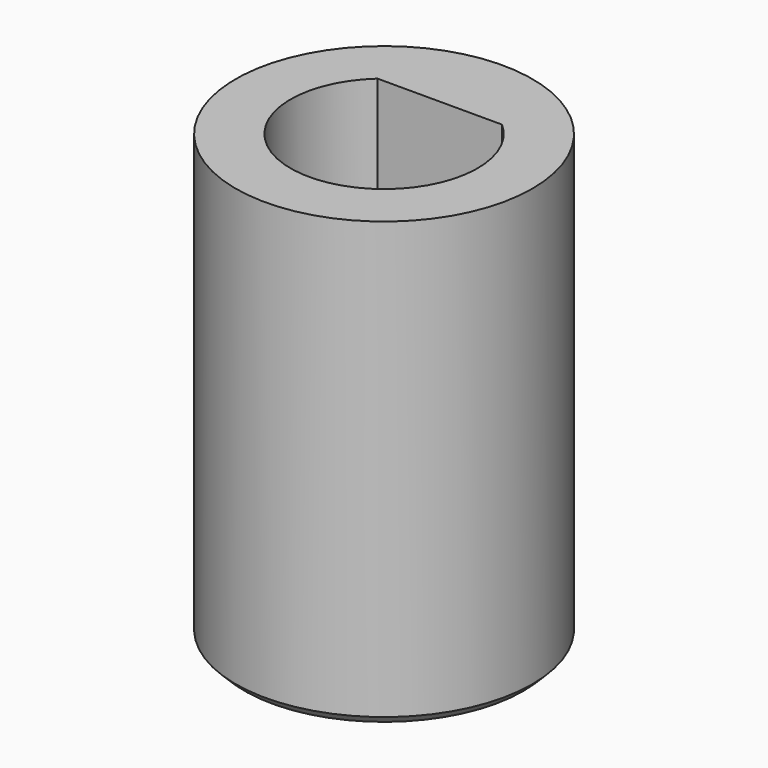
from build123d import *

# Parameters (mm, degrees)
F0_R     = 5
F1_DEPTH = 15
F3_DEPTH = 12
F4_SIZE  = 0.3


with BuildPart() as f1:
    # F0 (on Top) → F1 (new body)
    with BuildSketch(Plane.XY):
        Circle(F0_R)
    extrude(amount=F1_DEPTH)

    # F2 (on face) → F3 (cut)
    with BuildSketch(Plane.XY.offset(15)):
        with BuildLine():
            Line((2.097618, 2.35), (-2.097618, 2.35))
            ThreePointArc((-2.097618, 2.35), (0, -3.15), (2.097618, 2.35))
        make_face()
    extrude(amount=-F3_DEPTH, mode=Mode.SUBTRACT)

    # F4
    f4_edges = [f1.edges().sort_by_distance(p)[0] for p in [
        (-5, 0, 0),
    ]]
    chamfer(f4_edges, length=F4_SIZE)


solid = f1.part
